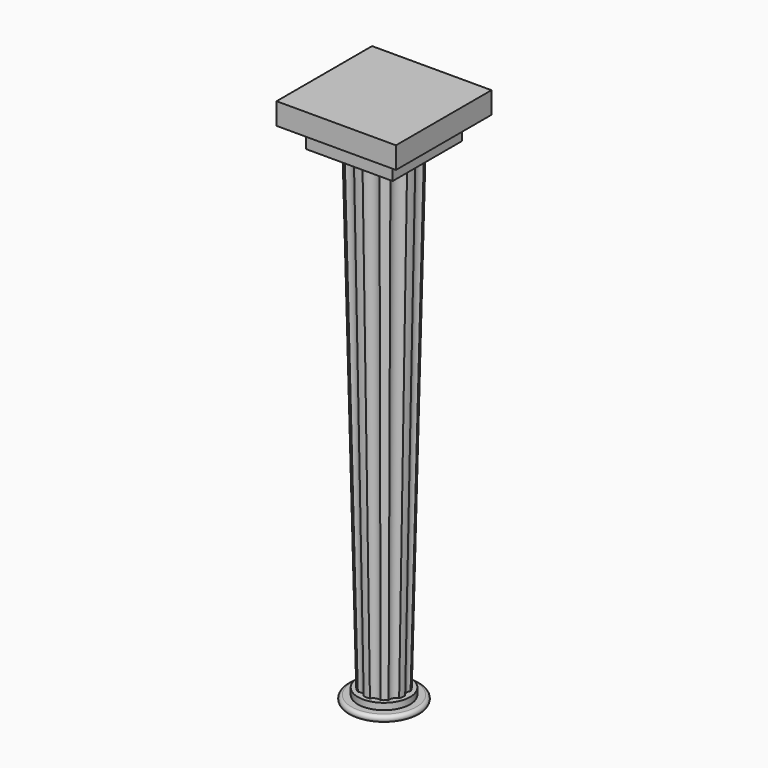
from build123d import *

# Parameters (mm, degrees)
F1_W     = 50.8
F1_H     = 50.8
F2_DEPTH = 25.4
F0_W     = 69.85
F0_H     = 69.85
F3_DEPTH = 12.7


with BuildPart() as f2:
    # F1 (on Top) → F2 (new body)
    with BuildSketch(Plane.XY):
        Rectangle(F1_W, F1_H)
    extrude(amount=-F2_DEPTH)

    # F0 (on Top) → F3 (join)
    with BuildSketch(Plane.XY):
        Rectangle(F0_W, F0_H)
    extrude(amount=-F3_DEPTH)

    # F6 (on offset) → F7 section 0
    with BuildSketch(Plane.XY.offset(-304.8)):
        with BuildLine():
            ThreePointArc((1.8223172477, -12.5685782748), (3.902854843, -10.743026765), (6.6700057903, -10.8074521862))
            ThreePointArc((6.6700057903, -10.8074521862), (8.1575727221, -9.7336533369), (9.4749023876, -8.4567265975))
            ThreePointArc((9.4749023876, -8.4567265975), (9.8952447599, -5.7209292202), (12.0564172288, -3.991591613))
            ThreePointArc((12.0564172288, -3.991591613), (12.5057350151, -2.2128243791), (12.6940753985, -0.3878785593))
            ThreePointArc((12.6940753985, -0.3878785593), (11.2575396802, 1.9780546879), (11.8014970538, 4.6919790376))
            ThreePointArc((11.8014970538, 4.6919790376), (11.0023249087, 6.3434096985), (9.9735494515, 7.8624621677))
            ThreePointArc((9.9735494515, 7.8624621677), (7.3523066706, 8.7514848238), (6.0245252483, 11.1801205509))
            ThreePointArc((6.0245252483, 11.1801205509), (4.3508047004, 11.931491879), (2.5862888725, 12.4338694648))
            ThreePointArc((2.5862888725, 12.4338694648), (0.006847658, 11.4299979488), (-2.571388876, 12.4369594053))
            ThreePointArc((-2.571388876, 12.4369594053), (-4.3365053811, 11.9366964056), (-6.0111250133, 11.1873310523))
            ThreePointArc((-6.0111250133, 11.1873310523), (-7.3418154499, 8.7602880032), (-9.9641215675, 7.8744067325))
            ThreePointArc((-9.9641215675, 7.8744067325), (-10.9947163999, 6.3565880224), (-11.7958666993, 4.7061161071))
            ThreePointArc((-11.7958666993, 4.7061161071), (-11.2551615136, 1.9915419412), (-12.6945310386, -0.3726683647))
            ThreePointArc((-12.6945310386, -0.3726683647), (-12.5083774225, -2.1978385421), (-12.0611912601, -3.9771428673))
            ThreePointArc((-12.0611912601, -3.9771428673), (-9.9020924178, -5.7090687286), (-9.4850283528, -8.4453677923))
            ThreePointArc((-9.4850283528, -8.4453677923), (-8.169229634, -9.7238720265), (-6.6829503852, -10.799452493))
            ThreePointArc((-6.6829503852, -10.799452493), (-3.9157242303, -10.7383426911), (-1.8373754864, -12.5663857701))
            ThreePointArc((-1.8373754864, -12.5663857701), (-0.0076085088, -12.6999977209), (1.8223172477, -12.5685782748))
        make_face()
    # F4 (on face) → F7 section 1
    with BuildSketch(Plane(origin=(0, 0, -25.4), x_dir=(1, 0, 0), z_dir=(0, 0, -1))):
        with BuildLine():
            ThreePointArc((8.8099627366, -16.8904427586), (10.6124234359, -12.6473937559), (15.1040050059, -11.6091142117))
            ThreePointArc((15.1040050059, -11.6091142117), (16.4977839421, -9.525), (17.6057903258, -7.2758949281))
            ThreePointArc((17.6057903258, -7.2758949281), (16.2591760022, -2.8669314133), (19.0325338784, 0.815569843))
            ThreePointArc((19.0325338784, 0.815569843), (18.7605876949, 3.3079977846), (18.163672955, 5.7431250017))
            ThreePointArc((18.163672955, 5.7431250017), (14.2980794165, 8.255), (14.0555286261, 12.8586397042))
            ThreePointArc((14.0555286261, 12.8586397042), (12.2451039645, 14.5931466414), (10.2225711418, 16.0748729155))
            ThreePointArc((10.2225711418, 16.0748729155), (5.6467525663, 15.5143251692), (2.5017853198, 18.8850091399))
            ThreePointArc((2.5017853198, 18.8850091399), (0, 19.05), (-2.5017853198, 18.8850091399))
            ThreePointArc((-2.5017853198, 18.8850091399), (-5.6467525663, 15.5143251692), (-10.2225711418, 16.0748729155))
            ThreePointArc((-10.2225711418, 16.0748729155), (-12.2451039645, 14.5931466414), (-14.0555286261, 12.8586397042))
            ThreePointArc((-14.0555286261, 12.8586397042), (-14.2980794165, 8.255), (-18.163672955, 5.7431250017))
            ThreePointArc((-18.163672955, 5.7431250017), (-18.7605876949, 3.3079977846), (-19.0325338784, 0.815569843))
            ThreePointArc((-19.0325338784, 0.815569843), (-16.2591760022, -2.8669314133), (-17.6057903258, -7.2758949281))
            ThreePointArc((-17.6057903258, -7.2758949281), (-16.4977839421, -9.525), (-15.1040050059, -11.6091142117))
            ThreePointArc((-15.1040050059, -11.6091142117), (-10.6124234359, -12.6473937559), (-8.8099627366, -16.8904427586))
            ThreePointArc((-8.8099627366, -16.8904427586), (-6.5154837304, -17.901144426), (-4.1081443289, -18.6017647059))
            ThreePointArc((-4.1081443289, -18.6017647059), (0, -16.51), (4.1081443289, -18.6017647059))
            ThreePointArc((4.1081443289, -18.6017647059), (6.5154837304, -17.901144426), (8.8099627366, -16.8904427586))
        make_face()
    loft()

    # F10 (on 3pt) → F11 (revolve)
    with BuildSketch(Plane(origin=(0, 0, 0), x_dir=(0.7445427832, -0.6675747479, 0), z_dir=(-0.6675747479, -0.7445427832, 0))):
        with BuildLine():
            Line((15.24, -304.8), (0, -304.8))
            Line((0, -304.8), (0, -312.42))
            Line((0, -312.42), (19.05, -312.42))
            ThreePointArc((19.05, -312.42), (20.955, -310.515), (19.05, -308.61))
            Line((19.05, -308.61), (15.24, -308.61))
            Line((15.24, -308.61), (15.24, -304.8))
        make_face()
    revolve(axis=Axis((0, 0, -308.61), (0, 0, -1)))


solid = f2.part
